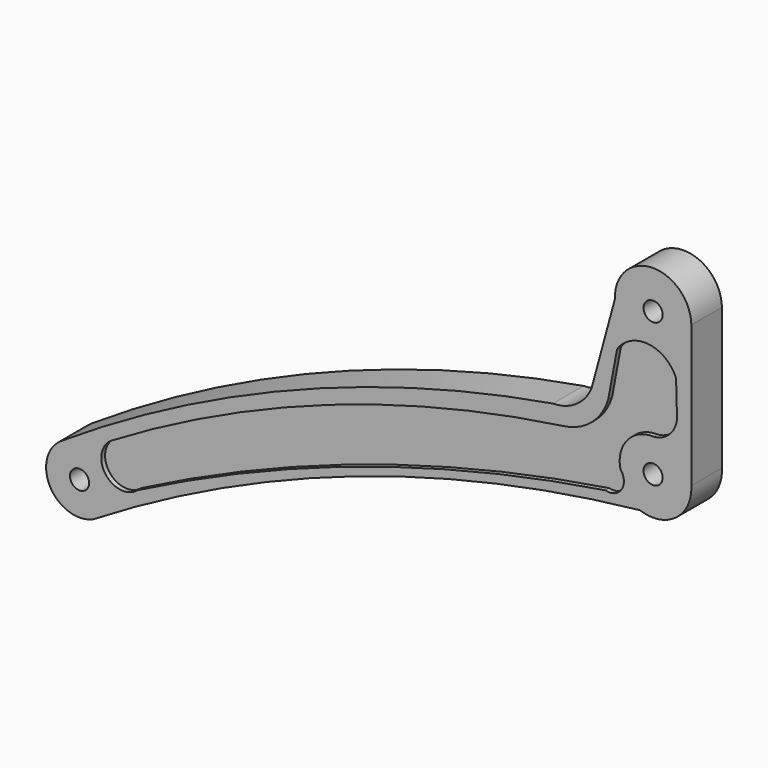
from build123d import *

# Parameters (mm, degrees)
SKETCH_R     = 1
PAD_DEPTH    = 4
POCKET_DEPTH = 0.5


with BuildPart() as part:
    # Sketch → Pad (new body)
    with BuildSketch(Plane(origin=(-43, 2, 10), x_dir=(-1, 0, 0), z_dir=(0, -1, 0))):
        with BuildLine():
            ThreePointArc((1.369567, -6.241771), (-2.39195, -6.793979), (-3.992648, -10.242416))
            Line((-3.992648, -10.242416), (-3.999699, -25.049081))
            ThreePointArc((-3.999699, -25.049081), (0.10526, -28.998615), (3.996742, -24.838581))
            Line((3.996742, -24.838581), (6.436421, -15.831628))
            ThreePointArc((10.468861, -13.107373), (8.040921, -13.860073), (6.436421, -15.831628))
            ThreePointArc((10.468861, -13.107373), (37.233561, -5.679802), (61.911635, 7.068166))
            ThreePointArc((61.911635, 7.068166), (63.070989, 11.678996), (58.563715, 13.191721))
            ThreePointArc((1.369567, -6.241771), (31.05105, 0.283484), (58.563715, 13.191721))
        make_face()
        with Locations((0, -10)):
            Circle(SKETCH_R, mode=Mode.SUBTRACT)
        with Locations((60, 10)):
            Circle(SKETCH_R, mode=Mode.SUBTRACT)
        with Locations((0, -25)):
            Circle(SKETCH_R, mode=Mode.SUBTRACT)
    extrude(amount=PAD_DEPTH)

    # Sketch001 → Pocket (cut)
    with BuildSketch(Plane(origin=(-43, -2, 10), x_dir=(-1, 0, 0), z_dir=(0, -1, 0))):
        with BuildLine():
            ThreePointArc((-0.032814, -13.479149), (2.709829, -12.250672), (3.417072, -9.329876))
            ThreePointArc((4.97037, -6.903931), (3.291608, -7.539293), (3.417072, -9.329876))
            ThreePointArc((4.97037, -6.903931), (30.091825, -0.923478), (53.929252, 9.007808))
            ThreePointArc((56.670903, 5.328015), (57.272793, 8.637695), (53.929252, 9.007808))
            ThreePointArc((9.344748, -11.398275), (33.841325, -5.393473), (56.670903, 5.328015))
            ThreePointArc((9.344748, -11.398275), (6.419172, -12.709963), (4.685346, -15.40688))
            Line((4.685346, -15.40688), (3.764189, -20.315398))
            ThreePointArc((-2.402749, -19.605513), (0.465776, -21.827722), (3.764189, -20.315398))
            Line((-2.489869, -16.419374), (-2.402749, -19.605513))
            ThreePointArc((-0.032814, -13.479149), (-1.889204, -14.424576), (-2.489869, -16.419374))
        make_face()
    extrude(amount=-POCKET_DEPTH, mode=Mode.SUBTRACT)


solid = part.part
